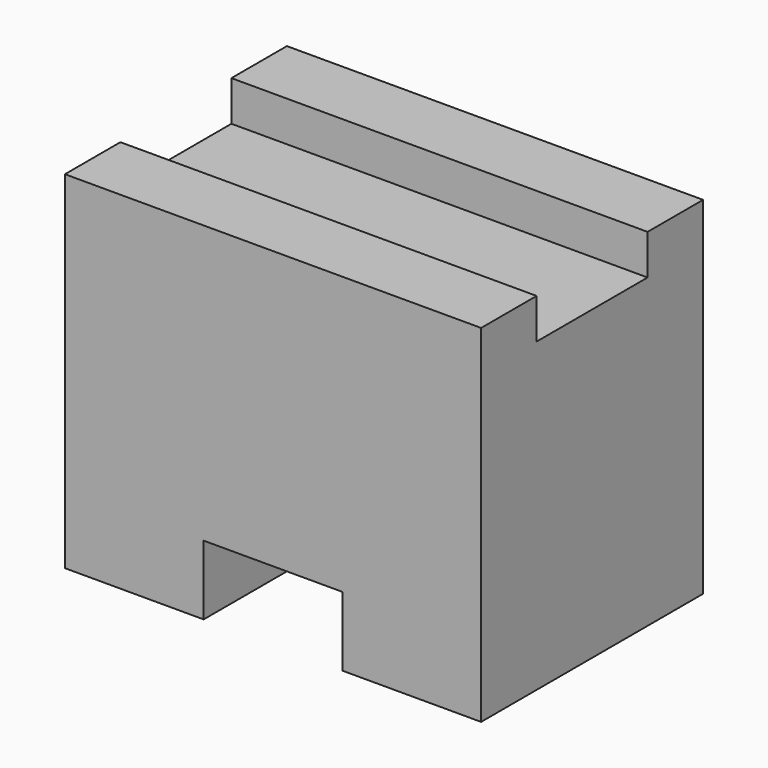
from build123d import *

# Parameters (mm, degrees)
F1_DEPTH = 38.1
F2_W     = 12.7
F2_H     = 6.35
F3_DEPTH = 25.4
F4_DEPTH = 50.8
F5_DEPTH = 25.4


with BuildPart() as f1:
    # F0 (on Right) → F1 (new body)
    with BuildSketch(Plane.YZ):
        Polygon((-12.7, 0), (0, 0), (12.7, 0), (12.7, 31.75), (6.35, 31.75), (6.35, 28.071857), (-6.35, 28.071857), (-6.35, 31.75), (-12.7, 31.75), align=None)
    extrude(amount=F1_DEPTH)

    # F2 (on Front) → F3 (cut)
    with BuildSketch(Plane.XZ):
        with Locations((19.05, 3.175)):
            Rectangle(F2_W, F2_H)
    extrude(amount=-F3_DEPTH, mode=Mode.SUBTRACT)

    # F2 (on Front) → F4 (cut)
    with BuildSketch(Plane.XZ):
        with Locations((19.05, 3.175)):
            Rectangle(F2_W, F2_H)
    extrude(amount=-F4_DEPTH, mode=Mode.SUBTRACT)

    # F2 (on Front) → F5 (cut)
    with BuildSketch(Plane.XZ):
        with Locations((19.05, 3.175)):
            Rectangle(F2_W, F2_H)
    extrude(amount=F5_DEPTH, mode=Mode.SUBTRACT)


solid = f1.part
